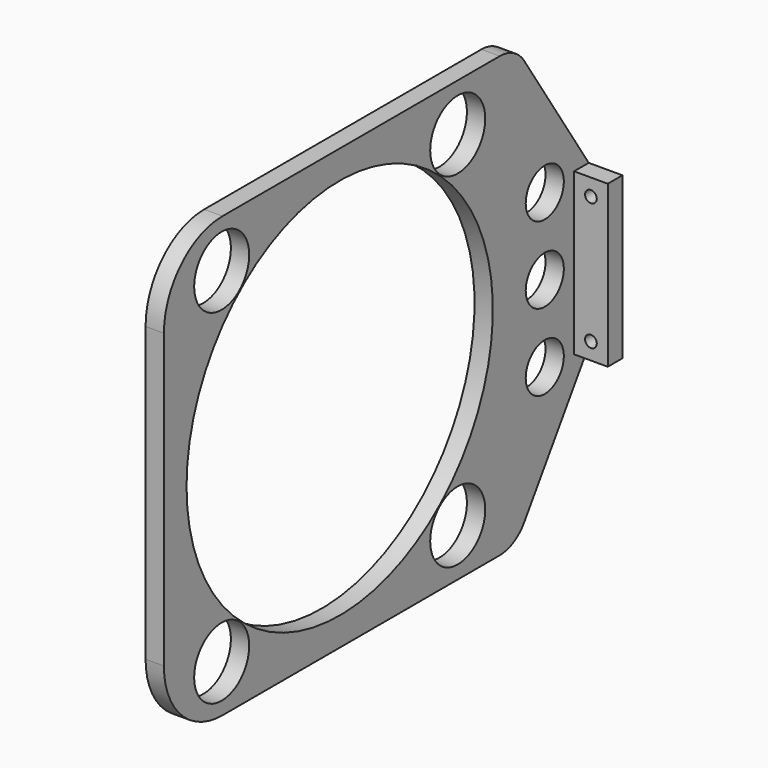
from build123d import *

# Parameters (mm, degrees)
F0_W     = 5
F0_H     = 44
F0_W_2   = 9.2
F0_R     = 1.6
F1_DEPTH = 5
F2_R     = 9.388258
F2_R_2   = 6.5
F2_R_3   = 52.271065
F3_DEPTH = 5


with BuildPart() as f1:
    # F0 (on Front) → F1 (new body)
    with BuildSketch(Plane.XZ):
        with Locations((-7.1, 0)):
            Rectangle(F0_W, F0_H)
        Rectangle(F0_W_2, F0_H)
        with Locations((0, -17.4)):
            Circle(F0_R, mode=Mode.SUBTRACT)
        with Locations((0, 17.4)):
            Circle(F0_R, mode=Mode.SUBTRACT)
    extrude(amount=F1_DEPTH)

    # F2 (on face) → F3 (join)
    with BuildSketch(Plane(origin=(-9.6, 0, 0), x_dir=(0, -1, 0), z_dir=(-1, 0, 0))):
        with BuildLine():
            Line((125, 60), (30.391121, 60))
            ThreePointArc((30.391121, 60), (25.645684, 58.802319), (22.036951, 55.496165))
            Line((22.036951, 55.496165), (0, 22))
            Line((0, 22), (5, 22))
            Line((5, 22), (5, -22))
            Line((5, -22), (0, -22))
            Line((0, -22), (22.036951, -55.496165))
            ThreePointArc((22.036951, -55.496165), (25.645684, -58.802319), (30.391121, -60))
            Line((30.391121, -60), (125, -60))
            ThreePointArc((125, -60), (139.142136, -54.142136), (145, -40))
            Line((145, -40), (145, 40))
            ThreePointArc((145, 40), (139.142136, 54.142136), (125, 60))
        make_face()
        with Locations((44.716677, -46.986934)):
            Circle(F2_R, mode=Mode.SUBTRACT)
        with Locations((15, -20.977547)):
            Circle(F2_R_2, mode=Mode.SUBTRACT)
        with Locations((125.283323, -46.986934)):
            Circle(F2_R, mode=Mode.SUBTRACT)
        with Locations((15, 0)):
            Circle(F2_R_2, mode=Mode.SUBTRACT)
        with Locations((15, 20.977547)):
            Circle(F2_R_2, mode=Mode.SUBTRACT)
        with Locations((44.716677, 46.986934)):
            Circle(F2_R, mode=Mode.SUBTRACT)
        with Locations((85, 0)):
            Circle(F2_R_3, mode=Mode.SUBTRACT)
        with Locations((125.283323, 46.986934)):
            Circle(F2_R, mode=Mode.SUBTRACT)
    extrude(amount=-F3_DEPTH)


solid = f1.part
